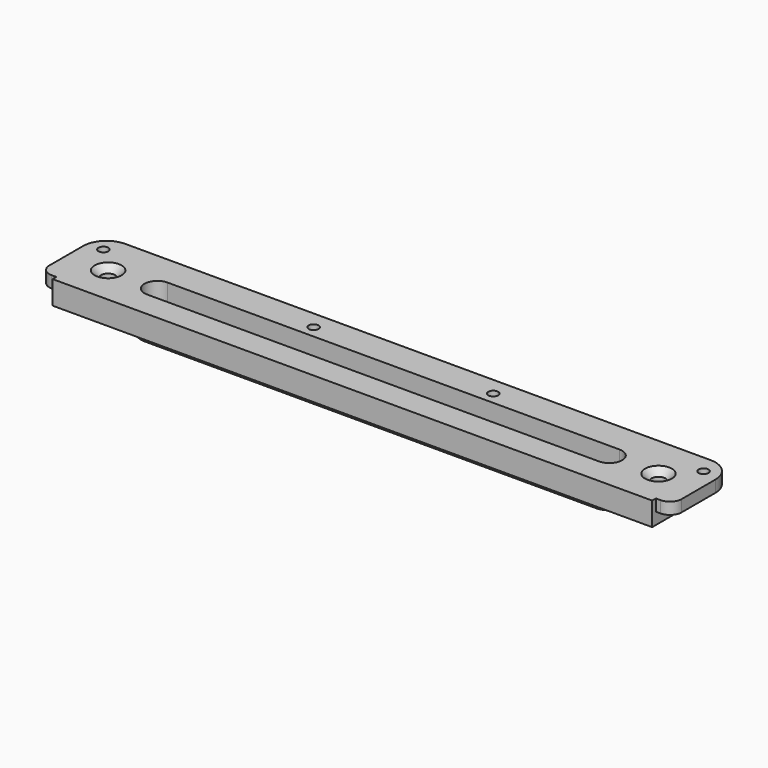
from build123d import *

# Parameters (mm, degrees)
F1_DEPTH       = 17
F2_DEPTH       = 10
F3_DEPTH       = 5
F4_D           = 6
F4_CSINK_D     = 11.5
F4_CSINK_ANGLE = 90
F5_D           = 4.2


with BuildPart() as f1:
    # F0 (on Top) → F1 (new body)
    with BuildSketch(Plane.XY):
        with BuildLine():
            ThreePointArc((-96.5, 7), (-103.5, 0), (-96.5, -7))
            Line((-96.5, -7), (96.5, -7))
            ThreePointArc((96.5, -7), (103.5, 0), (96.5, 7))
            Line((96.5, 7), (-96.5, 7))
        make_face()
        with BuildLine():
            ThreePointArc((-96.5, -5.5), (-102, 0), (-96.5, 5.5))
            Line((-96.5, 5.5), (96.5, 5.5))
            ThreePointArc((96.5, 5.5), (102, 0), (96.5, -5.5))
            Line((96.5, -5.5), (-96.5, -5.5))
        make_face(mode=Mode.SUBTRACT)
    extrude(amount=-F1_DEPTH)

    # F0 (on Top) → F2 (join)
    with BuildSketch(Plane.XY):
        Polygon((-128, 11.5), (-128, -14.5), (-128, -16.5), (128, -16.5), (128, -14.5), (128, 11.5), align=None)
        with BuildLine():
            Line((96.5, -7), (-96.5, -7))
            ThreePointArc((-96.5, -7), (-103.5, 0), (-96.5, 7))
            Line((-96.5, 7), (96.5, 7))
            ThreePointArc((96.5, 7), (103.5, 0), (96.5, -7))
        make_face(mode=Mode.SUBTRACT)
    extrude(amount=-F2_DEPTH)

    # F0 (on Top) → F3 (join)
    with BuildSketch(Plane.XY):
        with BuildLine():
            Line((125, 18.5), (-125, 18.5))
            ThreePointArc((-125, 18.5), (-132.0710678119, 15.5710678119), (-135, 8.5))
            Line((-135, 8.5), (-135, -9.5))
            ThreePointArc((-135, -9.5), (-133.5355339059, -13.0355339059), (-130, -14.5))
            Line((-130, -14.5), (-128, -14.5))
            Line((-128, -14.5), (-128, 11.5))
            Line((-128, 11.5), (128, 11.5))
            Line((128, 11.5), (128, -14.5))
            Line((128, -14.5), (130, -14.5))
            ThreePointArc((130, -14.5), (133.5355339059, -13.0355339059), (135, -9.5))
            Line((135, -9.5), (135, 8.5))
            ThreePointArc((135, 8.5), (132.0710678119, 15.5710678119), (125, 18.5))
        make_face()
    extrude(amount=-F3_DEPTH)

    # F4 (through all)
    with Locations(Plane.XY):
        with Locations((117.5, 0), (-117.5, 0)):
            CounterSinkHole(F4_D / 2, F4_CSINK_D / 2, counter_sink_angle=F4_CSINK_ANGLE)

    # F5 (through all)
    with Locations(Plane.XY):
        with Locations((-128.15, 10.75), (-38.35, 10.75), (38.35, 10.75), (128.15, 10.75)):
            Hole(F5_D / 2)


solid = f1.part
